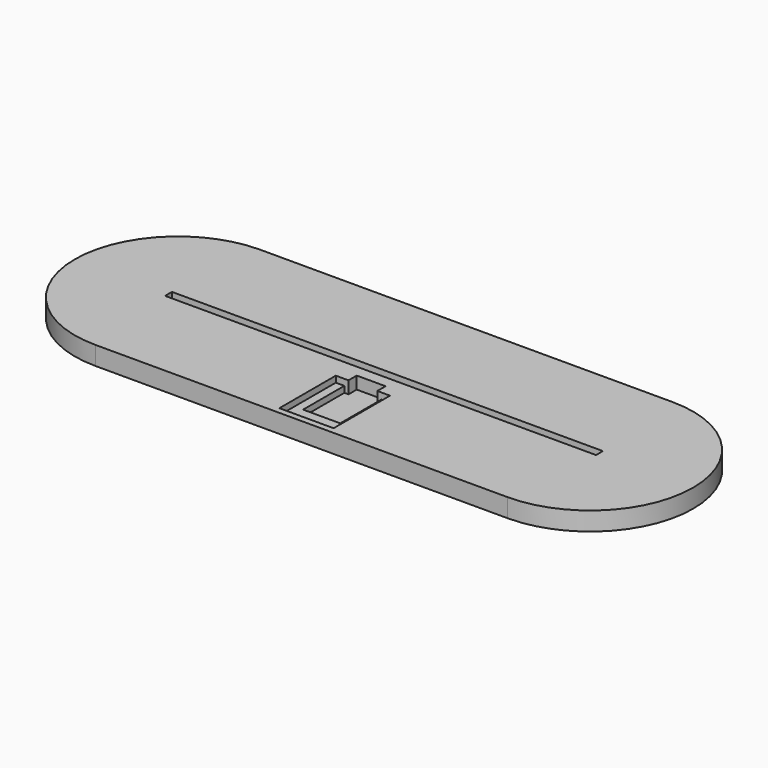
from build123d import *

# Parameters (mm, degrees)
PAD_DEPTH       = 3
PAD001_DEPTH    = 3
SKETCH002_W     = 209.08447
SKETCH002_H     = 4.18
PAD002_DEPTH    = 3
SKETCH003_W     = 26.3
SKETCH003_H     = 34.2
POCKET_DEPTH    = 3
SKETCH004_W     = 18
SKETCH004_H     = 25
POCKET001_DEPTH = 3
SKETCH005_W     = 14
SKETCH005_H     = 5
POCKET002_DEPTH = 6


with BuildPart() as part:
    # Sketch → Pad (new body)
    with BuildSketch(Plane.XY):
        with BuildLine():
            ThreePointArc((-100, 50), (-150, 0), (-100, -50))
            Line((-100, -50), (100, -50))
            ThreePointArc((100, -50), (150, 0), (100, 50))
            Line((-100, 50), (100, 50))
        make_face()
    extrude(amount=PAD_DEPTH)

    # Sketch001 (on Face6 of Pad) → Pad001 (join)
    with BuildSketch(Plane.XY.offset(3)):
        with BuildLine():
            ThreePointArc((-100, 50), (-150, 0), (-100, -50))
            Line((-100, -50), (100, -50))
            ThreePointArc((100, -50), (150, 0), (100, 50))
            Line((-100, 50), (100, 50))
        make_face()
        with BuildLine():
            ThreePointArc((-100, 5), (-105, 0), (-100, -5))
            Line((-100, -5), (100, -5))
            ThreePointArc((100, -5), (105, 0), (100, 5))
            Line((-100, 5), (100, 5))
        make_face(mode=Mode.SUBTRACT)
    extrude(amount=PAD001_DEPTH)

    # Sketch002 (on Face9 of Pad001) → Pad002 (join)
    with BuildSketch(Plane.XY.offset(6)):
        with BuildLine():
            ThreePointArc((-100, 50), (-150, 0), (-100, -50))
            Line((-100, -50), (100, -50))
            ThreePointArc((100, -50), (150, 0), (100, 50))
            Line((-100, 50), (100, 50))
        make_face()
        Rectangle(SKETCH002_W, SKETCH002_H, mode=Mode.SUBTRACT)
    extrude(amount=PAD002_DEPTH)

    # Sketch003 (on Face13 of Pad002) → Pocket (cut)
    with BuildSketch(Plane.XY.offset(9)):
        with Locations((0, -29.9)):
            Rectangle(SKETCH003_W, SKETCH003_H)
    extrude(amount=-POCKET_DEPTH, mode=Mode.SUBTRACT)

    # Sketch004 (on Face27 of Pocket) → Pocket001 (cut)
    with BuildSketch(Plane.XY.offset(6)):
        with Locations((0, -25.3)):
            Rectangle(SKETCH004_W, SKETCH004_H)
    extrude(amount=-POCKET001_DEPTH, mode=Mode.SUBTRACT)

    # Sketch005 (on Face13 of Pocket001) → Pocket002 (cut)
    with BuildSketch(Plane.XY.offset(9)):
        with Locations((0, -10.3)):
            Rectangle(SKETCH005_W, SKETCH005_H)
    extrude(amount=-POCKET002_DEPTH, mode=Mode.SUBTRACT)


solid = part.part
